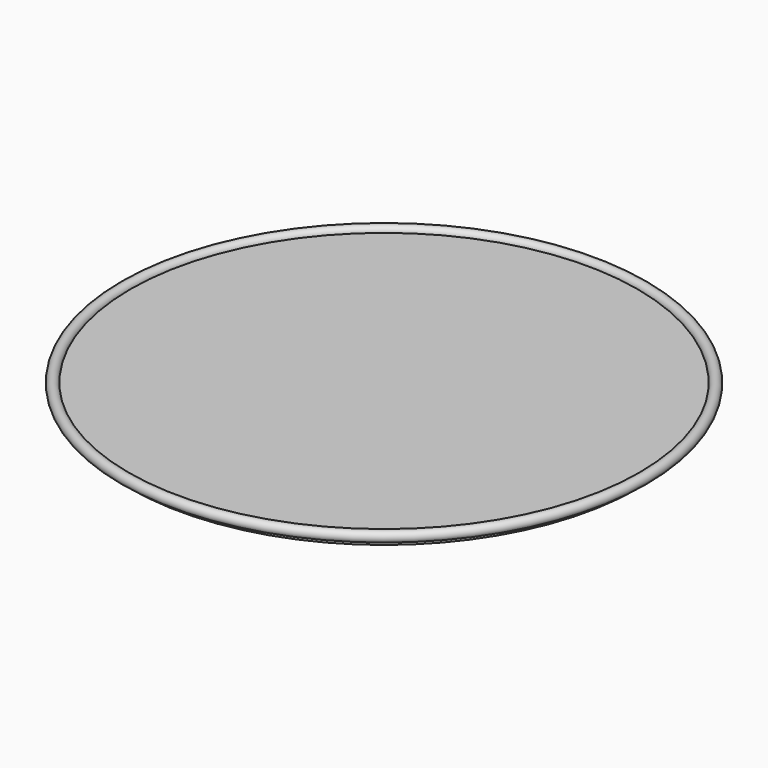
from build123d import *

# Parameters (mm, degrees)
F1_R     = 445.5
F3_DEPTH = 19.05
F4_R     = 9.3


with BuildPart() as f3:
    # F1 (on face) → F3 (new body)
    with BuildSketch(Plane.XY):
        Circle(F1_R)
    extrude(amount=-F3_DEPTH)


with BuildPart() as f5:
    # F4 (on Front) → F5 (revolve)
    with BuildSketch(Plane.XZ):
        with Locations((-454.8, 0)):
            Circle(F4_R)
    revolve(axis=Axis((0, 0, 111.128785), (0, 0, 1)))


solid = Compound([f3.part, f5.part])
